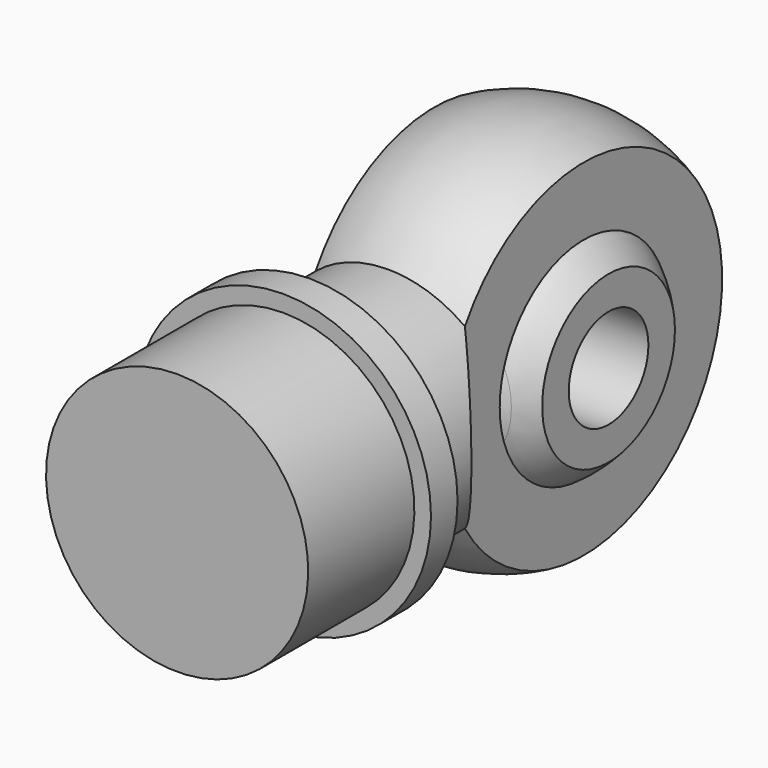
from build123d import *


with BuildPart() as f1:
    # F0 (on Top) → F1 (revolve)
    with BuildSketch(Plane.XY):
        with BuildLine():
            Line((-3, 2.5), (-3, 1.5))
            Line((-3, 1.5), (3, 1.5))
            Line((3, 1.5), (3, 2.5))
            ThreePointArc((3, 2.5), (2.645751, 2.854249), (2.25, 3.161438))
            ThreePointArc((2.25, 3.161438), (0, 3.854249), (-2.25, 3.161438))
            ThreePointArc((-2.25, 3.161438), (-2.645751, 2.854249), (-3, 2.5))
        make_face()
        with BuildLine():
            Line((-2.25, 5.215143), (-2.25, 3.161438))
            ThreePointArc((-2.25, 3.161438), (0, 3.854249), (2.25, 3.161438))
            Line((2.25, 3.161438), (2.25, 5.215143))
            ThreePointArc((2.25, 5.215143), (0, 5.75), (-2.25, 5.215143))
        make_face()
    revolve(axis=Axis((0, 0, 0), (1, 0, 0)))

    # F2 (on Right) → F3 (revolve)
    with BuildSketch(Plane.YZ):
        Polygon((-12.5, 3.95), (-12.5, 0), (-3, 0), (-3, 3.5), (-7.5, 3.5), (-7.5, 4.45), (-8.5, 4.45), (-8.5, 3.95), align=None)
    revolve(axis=Axis((0, -6.25, 0), (0, -1, 0)))

    # F0 (on Top) → F4 (revolve, cut)
    with BuildSketch(Plane.XY):
        with BuildLine():
            Line((3, 2.5), (3, 1.5))
            Line((3, 1.5), (5, 1.5))
            Line((5, 1.5), (5, 6))
            Line((5, 6), (3.95, 6))
            Line((3.95, 6), (2.25, 5.215143))
            Line((2.25, 5.215143), (2.25, 3.161438))
            ThreePointArc((2.25, 3.161438), (2.645751, 2.854249), (3, 2.5))
        make_face()
        with BuildLine():
            Line((-5, 1.5), (-3, 1.5))
            Line((-3, 1.5), (-3, 2.5))
            ThreePointArc((-3, 2.5), (-2.645751, 2.854249), (-2.25, 3.161438))
            Line((-2.25, 3.161438), (-2.25, 5.215143))
            Line((-2.25, 5.215143), (-3.95, 6))
            Line((-3.95, 6), (-5, 6))
            Line((-5, 6), (-5, 1.5))
        make_face()
    revolve(axis=Axis((0, 0, 0), (1, 0, 0)), mode=Mode.SUBTRACT)


solid = f1.part
